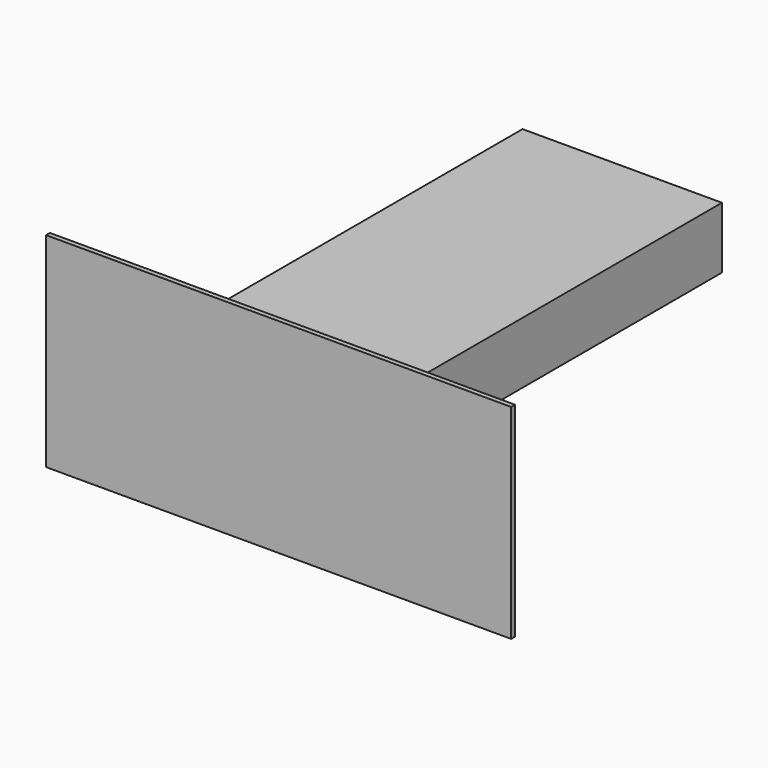
from build123d import *

# Parameters (mm, degrees)
F1_DEPTH = 320
F2_W     = 78
F2_H     = 346
F3_DEPTH = 1050
F4_W     = 2418.8394546509
F4_H     = 1062.1602833271
F4_W_2   = 1050
F4_H_2   = 346
F5_DEPTH = 25


with BuildPart() as f1:
    # F0 (on Top) → F1 (new body)
    with BuildSketch(Plane.XY):
        Polygon((329.0476813504, 1209.8600632322), (-707.9523186496, 1209.8600632322), (-707.9523186496, -1190.1399367678), (342.0476813504, -1190.1399367678), (342.0476813504, -1112.1399367678), (329.0476813504, -1112.1399367678), align=None)
    extrude(amount=F1_DEPTH)

    # F2 (on face) → F3 (join, through all)
    with BuildSketch(Plane(origin=(-707.9523186496, 0, 0), x_dir=(0, -1, 0), z_dir=(-1, 0, 0))):
        with Locations((1151.1399367678, 160)):
            Rectangle(F2_W, F2_H)
    extrude(amount=-F3_DEPTH)

    # F4 (on face) → F5 (join)
    with BuildSketch(Plane.XZ.offset(1190.1399367678)):
        with Locations((-36.5958213806, 114.1081303358)):
            Rectangle(F4_W, F4_H)
        with Locations((-182.9523186496, 160)):
            Rectangle(F4_W_2, F4_H_2, mode=Mode.SUBTRACT)
        with Locations((-182.9523186496, 160)):
            Rectangle(F4_W_2, F4_H_2)
    extrude(amount=F5_DEPTH)


solid = f1.part
